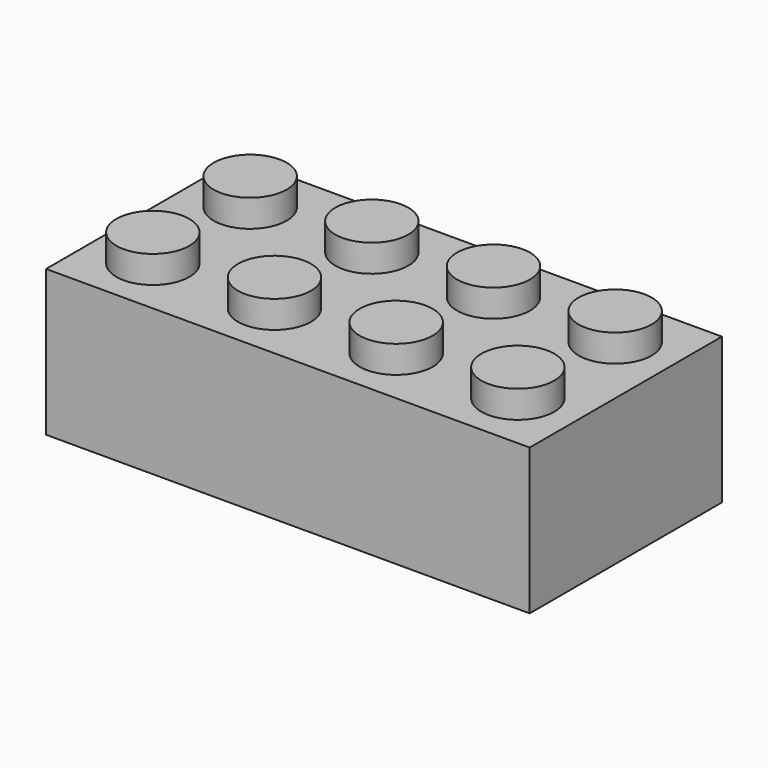
from build123d import *

# Parameters (mm, degrees)
F0_W     = 807.72
F0_H     = 401.32
F1_DEPTH = 243.84
F2_R     = 60.96
F3_DEPTH = 45.72
F4_W     = 749.806969
F4_H     = 340.36
F4_R     = 82.55
F4_R_2   = 60.96
F5_DEPTH = 213.36


with BuildPart() as f1:
    # F0 (on Top) → F1 (new body)
    with BuildSketch(Plane.XY):
        with Locations((-5.254116, 7.858066)):
            Rectangle(F0_W, F0_H)
    extrude(amount=F1_DEPTH)

    # F2 (on face) → F3 (join)
    with BuildSketch(Plane.XY.offset(243.84)):
        with Locations((-310.054116, 109.458066)):
            Circle(F2_R)
        with Locations((-310.054116, -93.741934)):
            Circle(F2_R)
        with Locations((-106.854116, 109.458066)):
            Circle(F2_R)
        with Locations((-106.854116, -93.741934)):
            Circle(F2_R)
        with Locations((96.345884, 109.458066)):
            Circle(F2_R)
        with Locations((96.345884, -93.741934)):
            Circle(F2_R)
        with Locations((299.545884, 109.458066)):
            Circle(F2_R)
        with Locations((299.545884, -93.741934)):
            Circle(F2_R)
    extrude(amount=F3_DEPTH)

    # F4 (on face) → F5 (cut)
    with BuildSketch(Plane(origin=(0, 0, 0), x_dir=(1, 0, 0), z_dir=(0, 0, -1))):
        with Locations((-6.777601, -7.858066)):
            Rectangle(F4_W, F4_H)
        with Locations((-203.2, 0)):
            Circle(F4_R, mode=Mode.SUBTRACT)
        Circle(F4_R, mode=Mode.SUBTRACT)
        with Locations((203.2, 0)):
            Circle(F4_R, mode=Mode.SUBTRACT)
        with Locations((-203.2, 0)):
            Circle(F4_R_2)
        Circle(F4_R_2)
        with Locations((203.2, 0)):
            Circle(F4_R_2)
    extrude(amount=-F5_DEPTH, mode=Mode.SUBTRACT)


solid = f1.part
